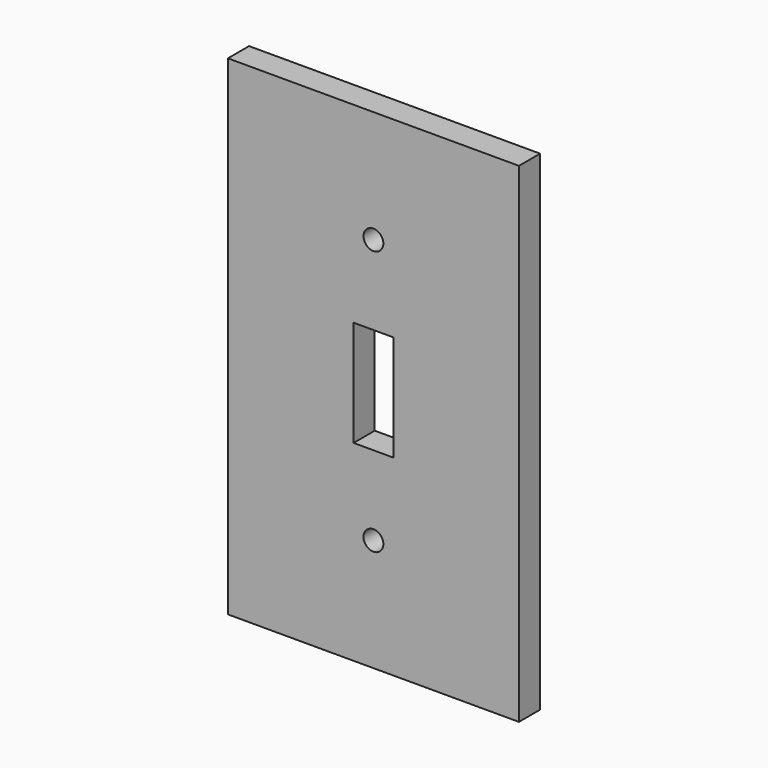
from build123d import *

# Parameters (mm, degrees)
F0_W     = 69.85
F0_H     = 117.475
F0_R     = 2.38125
F0_W_2   = 9.525
F0_H_2   = 25.4
F1_DEPTH = 3.175


with BuildPart() as f1:
    # F0 (on Front) → F1 (new body, symmetric)
    with BuildSketch(Plane.XZ):
        Rectangle(F0_W, F0_H)
        with Locations((0, -31.75)):
            Circle(F0_R, mode=Mode.SUBTRACT)
        Rectangle(F0_W_2, F0_H_2, mode=Mode.SUBTRACT)
        with Locations((0, 31.75)):
            Circle(F0_R, mode=Mode.SUBTRACT)
    extrude(amount=F1_DEPTH, both=True)


solid = f1.part
